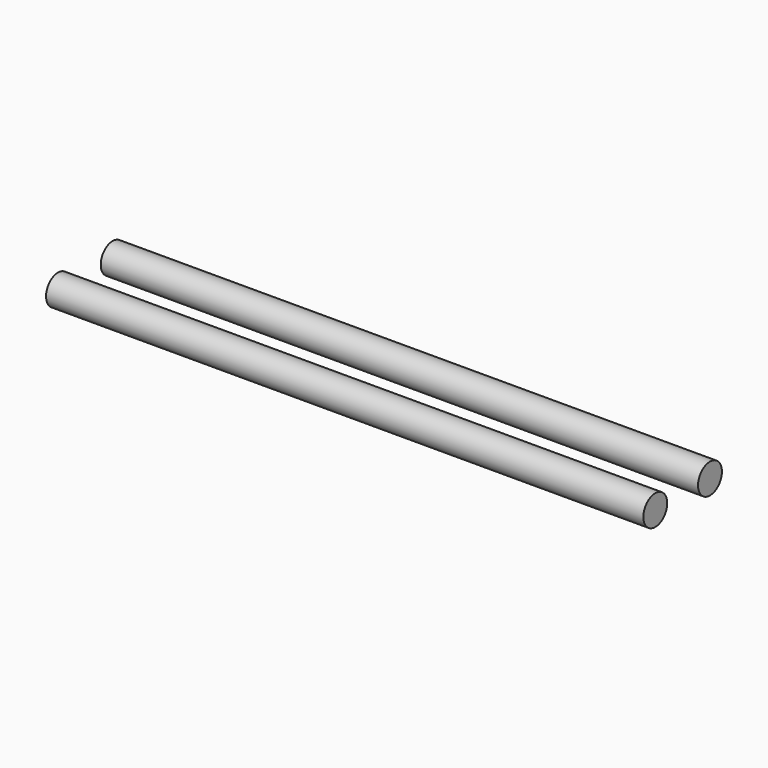
from build123d import *

# Parameters (mm, degrees)
F0_R     = 12.7
F1_DEPTH = 508


with BuildPart() as f1:
    # F0 (on Right) → F1 (new body)
    with BuildSketch(Plane.YZ):
        with Locations((58.134373, 0)):
            Circle(F0_R)
        Circle(F0_R)
    extrude(amount=F1_DEPTH)


solid = f1.part
